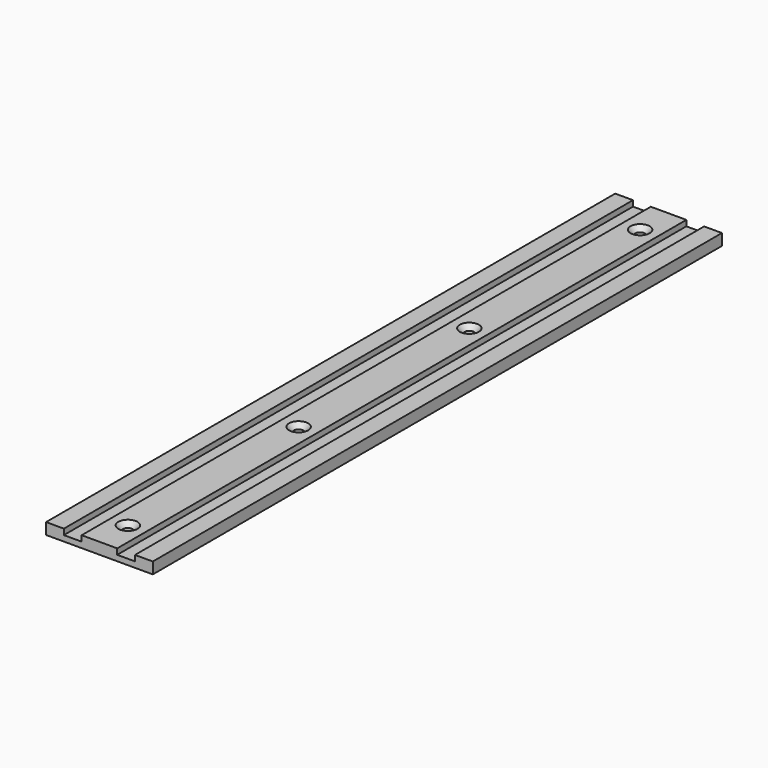
from build123d import *

# Parameters (mm, degrees)
F1_DEPTH       = 1000
F3_D           = 13.5
F3_DEPTH       = 16
F3_CSINK_D     = 26.88
F3_CSINK_ANGLE = 90
F3_TIP         = 4.0558091784


with BuildPart() as f1:
    # F0 (on Front) → F1 (new body)
    with BuildSketch(Plane.XZ):
        Polygon((-32.8026744276, 16), (-32.8026744276, 0), (117.1973255724, 0), (117.1973255724, 16), (92.1973255724, 16), (92.1973255724, 8), (67.1973255724, 8), (67.1973255724, 16), (42.1973255724, 16), (17.1973255724, 16), (17.1973255724, 8), (-7.8026744276, 8), (-7.8026744276, 16), align=None)
    extrude(amount=F1_DEPTH)

    # F3
    with Locations(Plane.XY.offset(16)):
        with Locations((42.1973255724, -50), (42.1973255724, -350), (42.1973255724, -650), (42.1973255724, -950)):
            CounterSinkHole(F3_D / 2, F3_CSINK_D / 2, depth=F3_DEPTH, counter_sink_angle=F3_CSINK_ANGLE)
            with Locations((0, 0, -(F3_DEPTH + F3_TIP / 2))):  # 118° drill point
                Cone(0, F3_D / 2, F3_TIP, mode=Mode.SUBTRACT)


solid = f1.part
